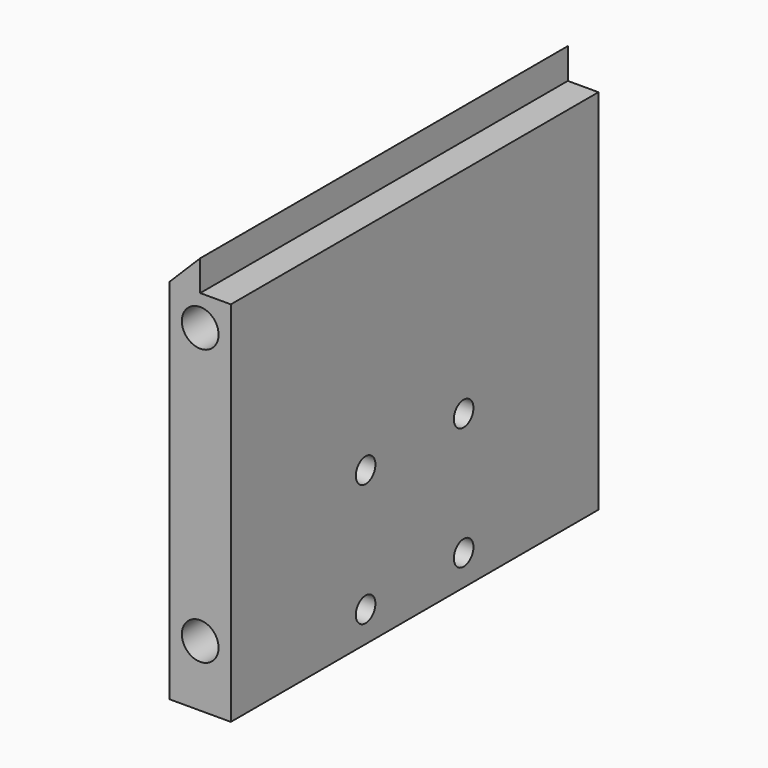
from build123d import *

# Parameters (mm, degrees)
F1_DEPTH  = 75
F3_R      = 2
F4_DEPTH  = 25
F6_R      = 3
F7_DEPTH  = 20
F8_R      = 3
F9_DEPTH  = 20
F10_R     = 3
F11_DEPTH = 20
F12_R     = 3
F13_DEPTH = 20
F2_R      = 2
F14_DEPTH = 10
F15_DEPTH = 25


with BuildPart() as f1:
    # F0 (on Front) → F1 (new body)
    with BuildSketch(Plane.XZ):
        Polygon((-5, 27.5), (-5, -32.5), (5, -32.5), (5, 27.5), (0, 27.5), (0, 32.5), align=None)
    extrude(amount=F1_DEPTH)

    # F3 (on face) → F4 (cut)
    with BuildSketch(Plane.YZ.offset(5)):
        with Locations((-47.5, -27.5)):
            Circle(F3_R)
        with Locations((-47.5, -7.5)):
            Circle(F3_R)
        with Locations((-27.5, -7.5)):
            Circle(F3_R)
        with Locations((-27.5, -27.5)):
            Circle(F3_R)
    extrude(amount=-F4_DEPTH, mode=Mode.SUBTRACT)

    # F6 (on face) → F7 (cut)
    with BuildSketch(Plane(origin=(0, 0, 0), x_dir=(-1, 0, 0), z_dir=(0, 1, 0))):
        with Locations((0, -22.5)):
            Circle(F6_R)
    extrude(amount=-F7_DEPTH, mode=Mode.SUBTRACT)

    # F8 (on face) → F9 (cut)
    with BuildSketch(Plane.XZ.offset(75)):
        with Locations((0, 22.5)):
            Circle(F8_R)
    extrude(amount=-F9_DEPTH, mode=Mode.SUBTRACT)

    # F10 (on face) → F11 (cut)
    with BuildSketch(Plane.XZ.offset(75)):
        with Locations((0, -22.5)):
            Circle(F10_R)
    extrude(amount=-F11_DEPTH, mode=Mode.SUBTRACT)

    # F12 (on face) → F13 (cut)
    with BuildSketch(Plane(origin=(0, 0, 0), x_dir=(-1, 0, 0), z_dir=(0, 1, 0))):
        with Locations((0, 22.5)):
            Circle(F12_R)
    extrude(amount=-F13_DEPTH, mode=Mode.SUBTRACT)

    # F2 (on face) → F14 (cut)
    with BuildSketch(Plane(origin=(0, 0, -32.5), x_dir=(1, 0, 0), z_dir=(0, 0, -1))):
        with Locations((-2.5, 37.5)):
            Circle(F2_R)
    extrude(amount=-F14_DEPTH, mode=Mode.SUBTRACT)

    # F3 (on face) → F15 (cut)
    with BuildSketch(Plane.YZ.offset(5)):
        with Locations((-47.5, -27.5)):
            Circle(F3_R)
        with Locations((-47.5, -7.5)):
            Circle(F3_R)
        with Locations((-27.5, -7.5)):
            Circle(F3_R)
        with Locations((-27.5, -27.5)):
            Circle(F3_R)
    extrude(amount=-F15_DEPTH, mode=Mode.SUBTRACT)


solid = f1.part
